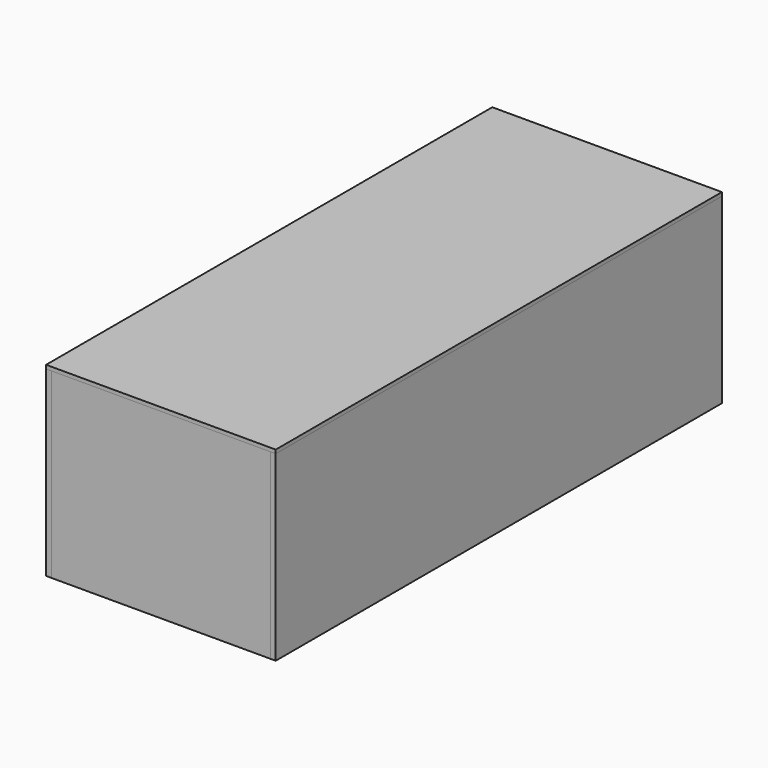
from build123d import *

# Parameters (mm, degrees)
F1_W      = 600
F1_H      = 1500
F2_DEPTH  = 10
F1_H_2    = 15
F3_DEPTH  = 500
F4_DEPTH  = 500
F5_DEPTH  = 500
F6_DEPTH  = 500
F7_W      = 630
F7_H      = 1530
F8_DEPTH  = 10
F9_W      = 20
F9_H      = 200
F10_DEPTH = 25
F9_W_2    = 200
F9_H_2    = 20
F11_DEPTH = 25


with BuildPart() as f2:
    # F1 (on Top) → F2 (new body)
    with BuildSketch(Plane.XY):
        Rectangle(F1_W, F1_H)
    extrude(amount=F2_DEPTH)


with BuildPart() as f3:
    # F1 (on Top) → F3 (new body, through all)
    with BuildSketch(Plane.XY):
        with Locations((0, 757.5)):
            Rectangle(F1_W, F1_H_2)
    extrude(amount=F3_DEPTH)


with BuildPart() as f4:
    # F1 (on Top) → F4 (new body, through all)
    with BuildSketch(Plane.XY):
        with Locations((0, -757.5)):
            Rectangle(F1_W, F1_H_2)
    extrude(amount=F4_DEPTH)


with BuildPart() as f5:
    # F1 (on Top) → F5 (new body, through all)
    with BuildSketch(Plane.XY):
        Polygon((300, 750), (300, -750), (300, -765), (315, -765), (315, 765), (300, 765), align=None)
    extrude(amount=F5_DEPTH)


with BuildPart() as f6:
    # F1 (on Top) → F6 (new body, through all)
    with BuildSketch(Plane.XY):
        Polygon((-300, -765), (-300, -750), (-300, 750), (-300, 765), (-315, 765), (-315, -765), align=None)
    extrude(amount=F6_DEPTH)


with BuildPart() as f8:
    # F7 (on offset) → F8 (new body)
    with BuildSketch(Plane.XY.offset(500)):
        Rectangle(F7_W, F7_H)
    extrude(amount=F8_DEPTH)


with BuildPart() as f10:
    # F9 (on offset) → F10 (new body)
    with BuildSketch(Plane.XY.offset(500)):
        with Locations((290, -650)):
            Rectangle(F9_W, F9_H)
    extrude(amount=-F10_DEPTH)


with BuildPart() as f11:
    # F9 (on offset) → F11 (new body)
    with BuildSketch(Plane.XY.offset(500)):
        with Locations((0, -740)):
            Rectangle(F9_W_2, F9_H_2)
        with Locations((-290, -650)):
            Rectangle(F9_W, F9_H)
        with Locations((290, 650)):
            Rectangle(F9_W, F9_H)
        with Locations((0, 740)):
            Rectangle(F9_W_2, F9_H_2)
        with Locations((-290, 650)):
            Rectangle(F9_W, F9_H)
    extrude(amount=-F11_DEPTH)


solid = Compound([f2.part, f3.part, f4.part, f5.part, f6.part, f8.part, f10.part, f11.part])
